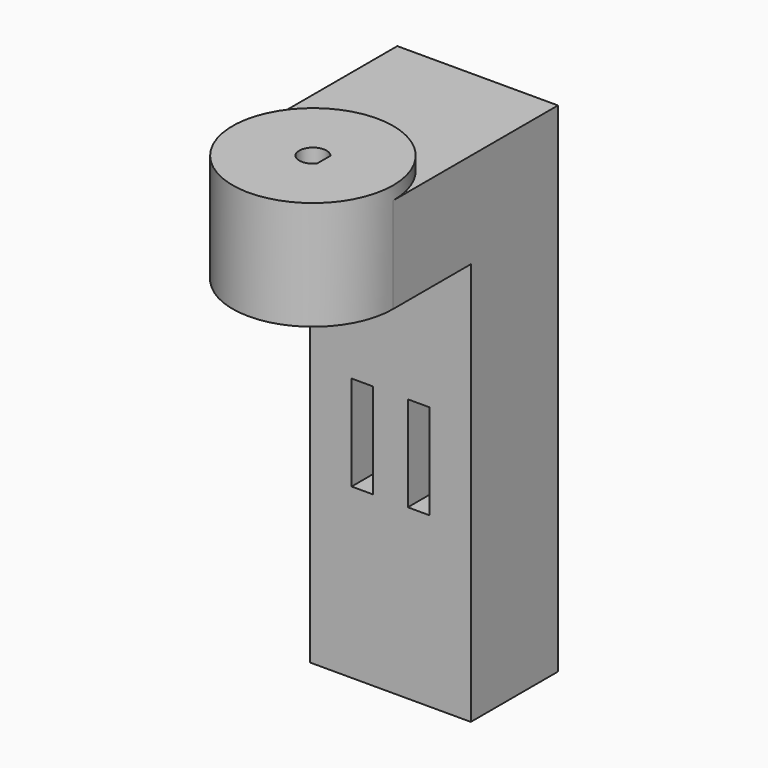
from build123d import *

# Parameters (mm, degrees)
F0_R     = 14.75
F1_DEPTH = 20
F3_DEPTH = 17.53955
F4_DEPTH = 74
F6_DEPTH = 19
F7_W     = 3.96875
F7_H     = 17.4625
F8_DEPTH = 20.001


with BuildPart() as f1:
    # F0 (on Top) → F1 (new body)
    with BuildSketch(Plane.XY):
        Circle(F0_R)
    extrude(amount=F1_DEPTH)

    # F2 (on face) → F3 (join)
    with BuildSketch(Plane(origin=(0, 0, 0), x_dir=(1, 0, 0), z_dir=(0, 0, -1))):
        with BuildLine():
            Line((0, -14.75), (0, -17.8051246337))
            Line((0, -17.8051246337), (14.75, -17.8051246337))
            Line((14.75, -17.8051246337), (14.75, 0))
            ThreePointArc((14.75, 0), (10.4298250225, -10.4298250225), (0, -14.75))
        make_face()
        with BuildLine():
            Line((-14.75, -17.8051246337), (0, -17.8051246337))
            Line((0, -17.8051246337), (0, -14.75))
            ThreePointArc((0, -14.75), (-10.4298250225, -10.4298250225), (-14.75, 0))
            Line((-14.75, 0), (-14.75, -17.8051246337))
        make_face()
        with BuildLine():
            ThreePointArc((-14.75, 0), (-10.4298250225, -10.4298250225), (0, -14.75))
            Line((0, -14.75), (0, 0))
            Line((0, 0), (-14.75, 0))
        make_face()
        with BuildLine():
            Line((0, 0), (0, -14.75))
            ThreePointArc((0, -14.75), (10.4298250225, -10.4298250225), (14.75, 0))
            Line((14.75, 0), (0, 0))
        make_face()
        Polygon((14.75, -17.8051246337), (0, -17.8051246337), (-14.75, -17.8051246337), (-14.75, -37.8051246337), (14.75, -37.8051246337), align=None)
    extrude(amount=-F3_DEPTH)

    # F2 (on face) → F4 (join)
    with BuildSketch(Plane(origin=(0, 0, 0), x_dir=(1, 0, 0), z_dir=(0, 0, -1))):
        Polygon((14.75, -17.8051246337), (0, -17.8051246337), (-14.75, -17.8051246337), (-14.75, -37.8051246337), (14.75, -37.8051246337), align=None)
    extrude(amount=F4_DEPTH)

    # F5 (on face) → F6 (cut)
    with BuildSketch(Plane.XY.offset(20)):
        with BuildLine():
            Line((2, -1.5), (2, 1.5))
            ThreePointArc((2, 1.5), (-2.5, 0), (2, -1.5))
        make_face()
    extrude(amount=-F6_DEPTH, mode=Mode.SUBTRACT)

    # F7 (on face) → F8 (cut, through all)
    with BuildSketch(Plane.XZ.offset(-17.8051246337)):
        with Locations((5.159375, -34.33125)):
            Rectangle(F7_W, F7_H)
        with Locations((-5.159375, -34.33125)):
            Rectangle(F7_W, F7_H)
    extrude(amount=-F8_DEPTH, mode=Mode.SUBTRACT)


solid = f1.part
